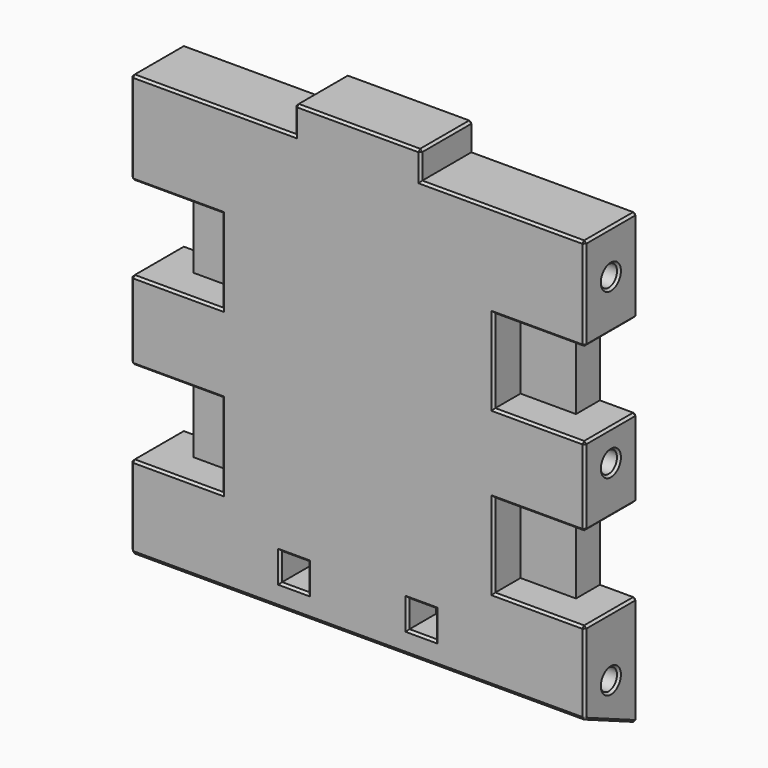
from build123d import *

# Parameters (mm, degrees)
SKETCH005_W     = 83
SKETCH005_H     = 96
PAD003_DEPTH    = 12
SKETCH006_R     = 1.9
POCKET002_DEPTH = 83.001
SKETCH007_W     = 30
SKETCH007_H     = 5
POCKET003_DEPTH = 12.001
SKETCH009_W     = 6.5
SKETCH009_H     = 15.3
POCKET005_DEPTH = 12.001
SKETCH010_W     = 10.15
SKETCH010_H     = 15.3
POCKET006_DEPTH = 6.15
SKETCH025_W     = 43
SKETCH025_H     = 80
PAD008_DEPTH    = 12
SKETCH026_W     = 5
SKETCH026_H     = 5
POCKET017_DEPTH = 12.001
SKETCH027_W     = 18.3
SKETCH027_H     = 5
POCKET018_DEPTH = 5.5
POCKET019_DEPTH = 83.001
CHAMFER_SIZE    = 0.4


with BuildPart() as part:
    # Sketch005 → Pad003 (new body)
    with BuildSketch(Plane.XZ):
        with Locations((-41.5, 48)):
            Rectangle(SKETCH005_W, SKETCH005_H)
    extrude(amount=-PAD003_DEPTH)

    # Sketch006 (on Face4 of Pad003) → Pocket002 (cut, through all)
    with BuildSketch(Plane(origin=(0, 0, 0), x_dir=(0, 0, 1), z_dir=(1, 0, 0))):
        with Locations((18, -6)):
            Circle(SKETCH006_R)
        with Locations((53, -6)):
            Circle(SKETCH006_R)
        with Locations((83, -6)):
            Circle(SKETCH006_R)
    extrude(amount=-POCKET002_DEPTH, mode=Mode.SUBTRACT)

    # Sketch007 (on Face5 of Pocket002) → Pocket003 (cut, through all)
    with BuildSketch(Plane(origin=(0, 12, 0), x_dir=(1, 0, 0), z_dir=(0, 1, 0))):
        with Locations((-68, -93.5)):
            Rectangle(SKETCH007_W, SKETCH007_H)
        with Locations((-15, -93.5)):
            Rectangle(SKETCH007_W, SKETCH007_H)
    extrude(amount=-POCKET003_DEPTH, mode=Mode.SUBTRACT)

    # Sketch009 (on Face5 of Pocket003) → Pocket005 (cut, through all)
    with BuildSketch(Plane(origin=(0, 12, 0), x_dir=(1, 0, 0), z_dir=(0, 1, 0))):
        with Locations((-79.75, -36.65)):
            Rectangle(SKETCH009_W, SKETCH009_H)
        with Locations((-79.75, -66.35)):
            Rectangle(SKETCH009_W, SKETCH009_H)
        with Locations((-3.25, -36.65)):
            Rectangle(SKETCH009_W, SKETCH009_H)
        with Locations((-3.25, -66.35)):
            Rectangle(SKETCH009_W, SKETCH009_H)
    extrude(amount=-POCKET005_DEPTH, mode=Mode.SUBTRACT)

    # Sketch010 (on Face4 of Pocket005) → Pocket006 (cut)
    with BuildSketch(Plane.XZ):
        with Locations((-71.425, 66.35)):
            Rectangle(SKETCH010_W, SKETCH010_H)
        with Locations((-71.425, 36.65)):
            Rectangle(SKETCH010_W, SKETCH010_H)
        with Locations((-11.575, 66.35)):
            Rectangle(SKETCH010_W, SKETCH010_H)
        with Locations((-11.575, 36.65)):
            Rectangle(SKETCH010_W, SKETCH010_H)
    extrude(amount=-POCKET006_DEPTH, mode=Mode.SUBTRACT)

    # Sketch025 (on Face5 of Pocket006) → Pad008 (join)
    with BuildSketch(Plane(origin=(0, 12, 0), x_dir=(1, 0, 0), z_dir=(0, 1, 0))):
        with Locations((-41.5, -50)):
            Rectangle(SKETCH025_W, SKETCH025_H)
    extrude(amount=-PAD008_DEPTH)

    # Sketch026 (on Face5 of Pad008) → Pocket017 (cut, through all)
    with BuildSketch(Plane(origin=(0, 12, 0), x_dir=(1, 0, 0), z_dir=(0, 1, 0))):
        with Locations((-53.15, -20.5)):
            Rectangle(SKETCH026_W, SKETCH026_H)
        with Locations((-29.85, -20.5)):
            Rectangle(SKETCH026_W, SKETCH026_H)
    extrude(amount=-POCKET017_DEPTH, mode=Mode.SUBTRACT)

    # Sketch027 (on Face5 of Pocket017) → Pocket018 (cut)
    with BuildSketch(Plane(origin=(0, 12, 0), x_dir=(1, 0, 0), z_dir=(0, 1, 0))):
        with Locations((-41.5, -20.5)):
            Rectangle(SKETCH027_W, SKETCH027_H)
    extrude(amount=-POCKET018_DEPTH, mode=Mode.SUBTRACT)

    # Sketch028 (on Face3 of Pocket018) → Pocket019 (cut, through all)
    with BuildSketch(Plane(origin=(-83, 0, 0), x_dir=(0, 0, -1), z_dir=(-1, 0, 0))):
        Polygon((0, 0), (-14, 0), (-3, -25), (0, -25), align=None)
    extrude(amount=-POCKET019_DEPTH, mode=Mode.SUBTRACT)

    # Chamfer
    chamfer_edges = [part.edges().sort_by_distance(p)[0] for p in [
        (-30, 12, 93.5),
        (-41.5, 12, 96),
        (-53, 12, 93.5),
        (-68, 12, 91),
        (-83, 12, 82.5),
        (-79.75, 12, 74),
        (-76.5, 12, 66.35),
        (-79.75, 12, 58.7),
        (-83, 12, 51.5),
        (-79.75, 12, 44.3),
        (-76.5, 12, 36.65),
        (-79.75, 12, 29),
        (-83, 12, 18.86),
        (-41.5, 12, 8.72),
        (0, 12, 18.86),
        (-3.25, 12, 29),
        (-6.5, 12, 36.65),
        (-3.25, 12, 44.3),
        (0, 12, 51.5),
        (-3.25, 12, 58.7),
        (-6.5, 12, 66.35),
        (-3.25, 12, 74),
        (0, 12, 82.5),
        (-15, 12, 91),
        (-53.15, 12, 23),
        (-41.5, 12, 23),
        (-55.65, 12, 20.5),
        (-29.85, 12, 23),
        (-53.15, 12, 18),
        (-27.35, 12, 20.5),
        (-41.5, 12, 18),
        (-29.85, 12, 18),
        (-41.5, 0, 96),
        (-53, 0, 93.5),
        (-68, 0, 91),
        (-83, 0, 82.5),
        (-79.75, 0, 74),
        (-71.425, 0, 74),
        (-66.35, 0, 66.35),
        (-71.425, 0, 58.7),
        (-79.75, 0, 58.7),
        (-83, 0, 51.5),
        (-79.75, 0, 44.3),
        (-71.425, 0, 44.3),
        (-66.35, 0, 36.65),
        (-71.425, 0, 29),
        (-79.75, 0, 29),
        (-83, 0, 21.5),
        (-41.5, 0, 14),
        (0, 0, 21.5),
        (-3.25, 0, 29),
        (-11.575, 0, 29),
        (-16.65, 0, 36.65),
        (-11.575, 0, 44.3),
        (-3.25, 0, 44.3),
        (0, 0, 51.5),
        (-3.25, 0, 58.7),
        (-11.575, 0, 58.7),
        (-16.65, 0, 66.35),
        (-11.575, 0, 74),
        (-3.25, 0, 74),
        (0, 0, 82.5),
        (-15, 0, 91),
        (-30, 0, 93.5),
        (-55.65, 0, 20.5),
        (-53.15, 0, 23),
        (-53.15, 0, 18),
        (-50.65, 0, 20.5),
        (-32.35, 0, 20.5),
        (-29.85, 0, 23),
        (-29.85, 0, 18),
        (-27.35, 0, 20.5),
        (-83, 6, 29),
        (-83, 6, 11.36),
        (-83, 6, 16.1),
        (-83, 6, 58.7),
        (-83, 6, 44.3),
        (-83, 6, 51.1),
        (-83, 6, 91),
        (-83, 6, 74),
        (-83, 6, 81.1),
        (0, 6, 74),
        (0, 6, 91),
        (0, 6, 81.1),
        (0, 6, 44.3),
        (0, 6, 58.7),
        (0, 6, 51.1),
        (0, 6, 11.36),
        (0, 6, 29),
        (0, 6, 16.1),
        (-30, 6, 96),
        (-53, 6, 96),
    ]]
    chamfer(chamfer_edges, length=CHAMFER_SIZE)


with BuildPart() as part_1:
    # Body001 placement: moved
    add(part.part.moved(Location((0, -31.5, 0))))


solid = part_1.part
